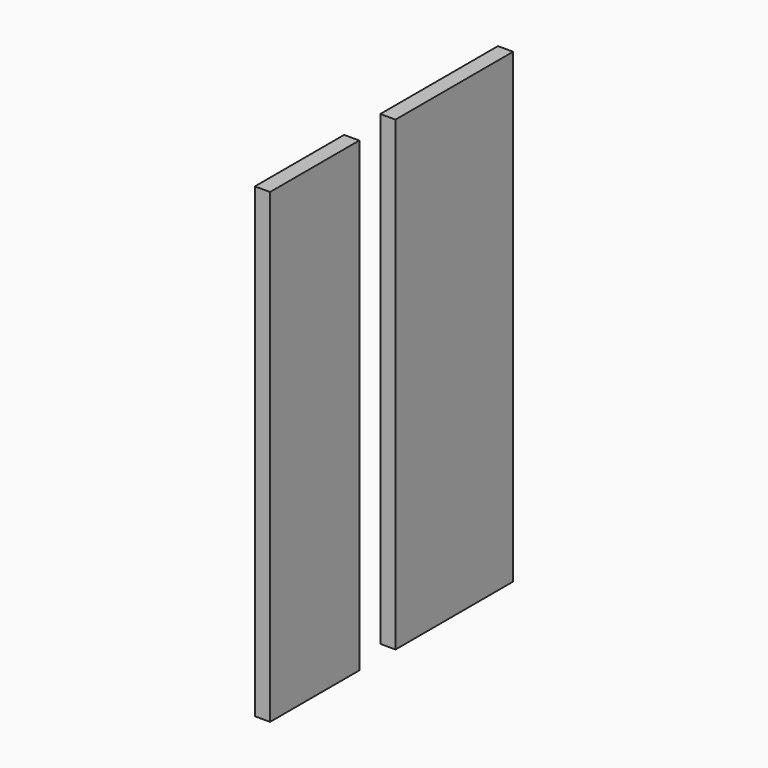
from build123d import *

# Parameters (mm, degrees)
F0_W     = 184.15
F0_H     = 584.2
F1_DEPTH = 19.05
F2_W     = 139.7
F2_H     = 584.2
F3_DEPTH = 19.05


with BuildPart() as f1:
    # F0 (on Right) → F1 (new body)
    with BuildSketch(Plane.YZ):
        Rectangle(F0_W, F0_H)
    extrude(amount=F1_DEPTH)


with BuildPart() as f3:
    # F2 (on Right) → F3 (new body)
    with BuildSketch(Plane.YZ):
        with Locations((-218.584901, 0)):
            Rectangle(F2_W, F2_H)
    extrude(amount=F3_DEPTH)


solid = Compound([f1.part, f3.part])
